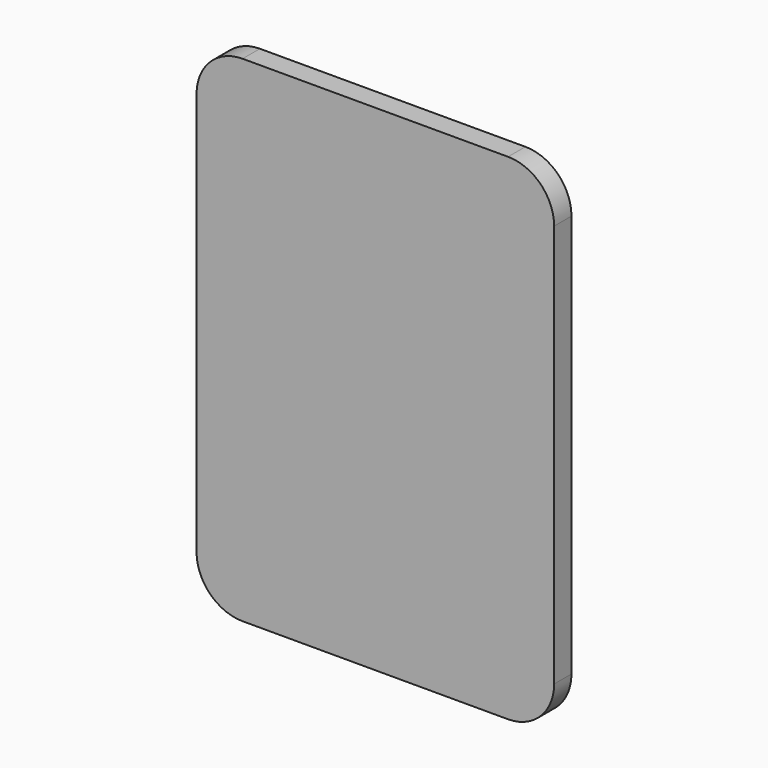
from build123d import *

# Parameters (mm, degrees)
F1_DEPTH = 20


with BuildPart() as f1:
    # F0 (on Front) → F1 (new body, symmetric)
    with BuildSketch(Plane.XZ):
        with BuildLine():
            Line((245, 457), (-245, 457))
            ThreePointArc((-245, 457), (-305.104076, 432.104076), (-330, 372))
            Line((-330, 372), (-330, -372))
            ThreePointArc((-330, -372), (-305.104076, -432.104076), (-245, -457))
            Line((-245, -457), (245, -457))
            ThreePointArc((245, -457), (305.104076, -432.104076), (330, -372))
            Line((330, -372), (330, 372))
            ThreePointArc((330, 372), (305.104076, 432.104076), (245, 457))
        make_face()
    extrude(amount=F1_DEPTH, both=True)


solid = f1.part
